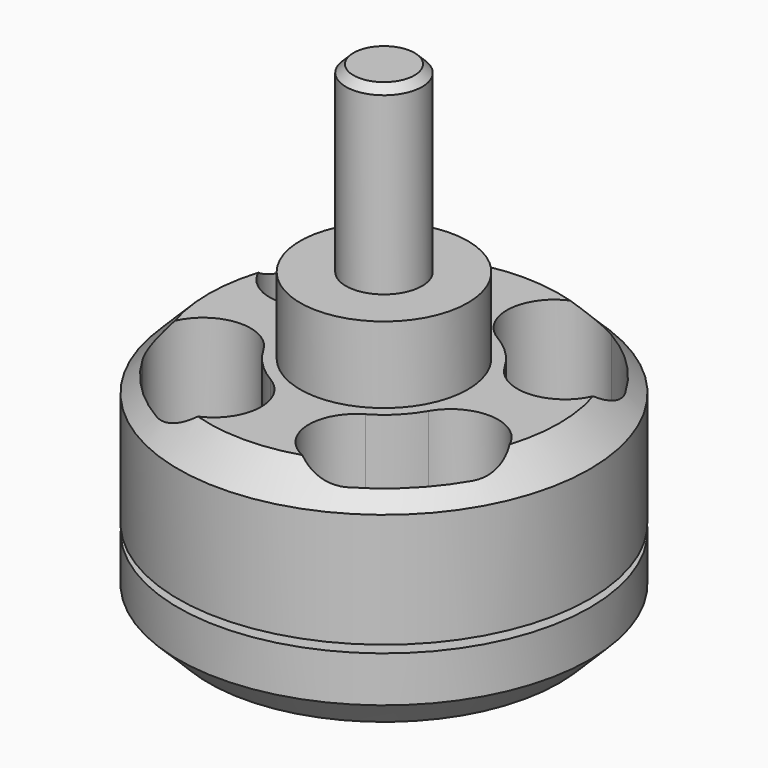
from build123d import *

# Parameters (mm, degrees)
F2_SIZE  = 2
F3_SIZE  = 0.5
F6_DEPTH = 27.001
F7_R     = 1.5
F8_DEPTH = 4


with BuildPart() as f1:
    # F0 (on Front) → F1 (revolve)
    with BuildSketch(Plane.XZ):
        Polygon((0, 32), (0, 0), (13.5, 0), (13.5, 5), (2.5, 5), (2.5, 5.5), (13.5, 5.5), (13.5, 15), (5.5, 15), (5.5, 20), (2.5, 20), (2.5, 32), align=None)
    revolve(axis=Axis((0, 0, 16), (0, 0, -1)))

    # F2
    f2_edges = [f1.edges().sort_by_distance(p)[0] for p in [
        (-13.5, 0, 15),
        (-13.5, 0, 0),
    ]]
    chamfer(f2_edges, length=F2_SIZE)

    # F3
    f3_edges = [f1.edges().sort_by_distance(p)[0] for p in [
        (-2.5, 0, 32),
    ]]
    chamfer(f3_edges, length=F3_SIZE)

    # F5 (on offset) → F6 (cut, through all)
    with BuildSketch(Plane.XY.offset(5)):
        with BuildLine():
            ThreePointArc((5.412659, 3.125), (9.681488, 1.981171), (10.825318, 6.25))
            ThreePointArc((10.825318, 6.25), (8.838835, 8.838835), (6.25, 10.825318))
            ThreePointArc((6.25, 10.825318), (1.981171, 9.681488), (3.125, 5.412659))
            ThreePointArc((3.125, 5.412659), (4.419417, 4.419417), (5.412659, 3.125))
        make_face()
        with BuildLine():
            ThreePointArc((-3.125, 5.412659), (-1.981171, 9.681488), (-6.25, 10.825318))
            ThreePointArc((-6.25, 10.825318), (-8.838835, 8.838835), (-10.825318, 6.25))
            ThreePointArc((-10.825318, 6.25), (-9.681488, 1.981171), (-5.412659, 3.125))
            ThreePointArc((-5.412659, 3.125), (-4.419417, 4.419417), (-3.125, 5.412659))
        make_face()
        with BuildLine():
            ThreePointArc((-3.125, -5.412659), (-4.419417, -4.419417), (-5.412659, -3.125))
            ThreePointArc((-5.412659, -3.125), (-9.681488, -1.981171), (-10.825318, -6.25))
            ThreePointArc((-10.825318, -6.25), (-8.838835, -8.838835), (-6.25, -10.825318))
            ThreePointArc((-6.25, -10.825318), (-1.981171, -9.681488), (-3.125, -5.412659))
        make_face()
        with BuildLine():
            ThreePointArc((3.125, -5.412659), (1.981171, -9.681488), (6.25, -10.825318))
            ThreePointArc((6.25, -10.825318), (8.838835, -8.838835), (10.825318, -6.25))
            ThreePointArc((10.825318, -6.25), (9.681488, -1.981171), (5.412659, -3.125))
            ThreePointArc((5.412659, -3.125), (4.419417, -4.419417), (3.125, -5.412659))
        make_face()
    extrude(amount=F6_DEPTH, mode=Mode.SUBTRACT)

    # F7 (on Top) → F8 (cut)
    with BuildSketch(Plane.XY):
        with Locations((-5.656854, 5.656854)):
            Circle(F7_R)
        with Locations((6.717514, 6.717514)):
            Circle(F7_R)
        with Locations((5.656854, -5.656854)):
            Circle(F7_R)
        with Locations((-6.717514, -6.717514)):
            Circle(F7_R)
    extrude(amount=F8_DEPTH, mode=Mode.SUBTRACT)


solid = f1.part
